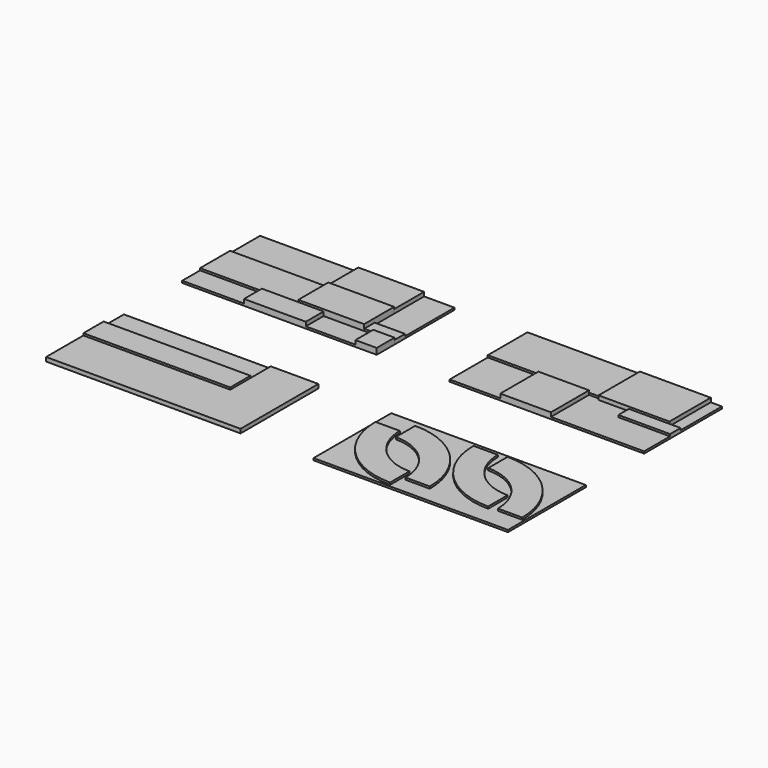
from build123d import *

# Parameters (mm, degrees)
F0_W     = 1231.9
F0_H     = 469.9
F0_W_2   = 774.7
F0_H_2   = 279.4
F0_W_3   = 1841.5
F0_H_3   = 317.5
F0_W_4   = 635
F0_H_4   = 596.9
F0_W_5   = 139.7
F0_H_5   = 647.7
F0_W_6   = 2438.4
F0_H_6   = 1219.2
F1_DEPTH = 25.4
F2_DEPTH = 50.8
F0_W_7   = 825.5
F0_W_8   = 266.7
F3_DEPTH = 76.2
F4_DEPTH = 101.6


with BuildPart() as f1:
    # F0 (on Top) → F1 (new body)
    with BuildSketch(Plane.XY):
        with Locations((615.95, 3117.85)):
            Rectangle(F0_W, F0_H)
        with Locations((387.35, 2273.3)):
            Rectangle(F0_W_2, F0_H_2)
        Polygon((1549.4, 2413), (1549.4, 2133.6), (2171.7, 2133.6), (2171.7, 2413), (2057.4, 2413), align=None)
        Polygon((2057.4, 3352.8), (2057.4, 2882.9), (2057.4, 2578.1), (2438.4, 2578.1), (2438.4, 3352.8), align=None)
        with Locations((920.75, 1060.45)):
            Rectangle(F0_W_3, F0_H_3)
        with Locations((3670.3, 2432.05)):
            Rectangle(F0_W_4, F0_H_4)
        Polygon((4622.8, 2730.5), (4622.8, 2133.6), (5791.2, 2133.6), (5791.2, 2540), (5143.5, 2540), (5143.5, 2705.1), (4762.5, 2705.1), (4762.5, 2730.5), align=None)
        with Locations((5721.35, 3028.95)):
            Rectangle(F0_W_5, F0_H_5)
        with Locations((4572, 609.6)):
            Rectangle(F0_W_6, F0_H_6)
        with BuildLine():
            ThreePointArc((4292.6, 25.4), (3646.021559, 293.221559), (3378.2, 939.8))
            Line((3378.2, 939.8), (3683, 939.8))
            ThreePointArc((3683, 939.8), (3861.547706, 508.747706), (4292.6, 330.2))
            Line((4292.6, 330.2), (4292.6, 25.4))
        make_face(mode=Mode.SUBTRACT)
        with BuildLine():
            ThreePointArc((3733.8, 1117.6), (4380.378441, 849.778441), (4648.2, 203.2))
            Line((4648.2, 203.2), (4343.4, 203.2))
            ThreePointArc((4343.4, 203.2), (4164.852294, 634.252294), (3733.8, 812.8))
            Line((3733.8, 812.8), (3733.8, 1117.6))
        make_face(mode=Mode.SUBTRACT)
        with BuildLine():
            ThreePointArc((5359.4, 228.6), (4712.821559, 496.421559), (4445, 1143))
            Line((4445, 1143), (4749.8, 1143))
            ThreePointArc((4749.8, 1143), (4928.347706, 711.947706), (5359.4, 533.4))
            Line((5359.4, 533.4), (5359.4, 228.6))
        make_face(mode=Mode.SUBTRACT)
        with BuildLine():
            ThreePointArc((4851.4, 1168.4), (5497.978441, 900.578441), (5765.8, 254))
            Line((5765.8, 254), (5461, 254))
            ThreePointArc((5461, 254), (5282.452294, 685.052294), (4851.4, 863.6))
            Line((4851.4, 863.6), (4851.4, 1168.4))
        make_face(mode=Mode.SUBTRACT)
    extrude(amount=F1_DEPTH)


with BuildPart() as f2:
    # F0 (on Top) → F2 (new body)
    with BuildSketch(Plane.XY):
        Polygon((0, 2882.9), (0, 2413), (774.7, 2413), (1231.9, 2413), (1231.9, 2882.9), align=None)
        Polygon((2057.4, 2413), (2171.7, 2413), (2438.4, 2413), (2438.4, 2578.1), (2057.4, 2578.1), align=None)
        Polygon((0, 584.2), (0, 0), (2438.4, 0), (2438.4, 1219.2), (1841.5, 1219.2), (1841.5, 901.7), (1841.5, 584.2), align=None)
        Polygon((3352.8, 3352.8), (3352.8, 2730.5), (3987.8, 2730.5), (4622.8, 2730.5), (4762.5, 2730.5), (4762.5, 3352.8), align=None)
        Polygon((5143.5, 2540), (5791.2, 2540), (5791.2, 2705.1), (5651.5, 2705.1), (5143.5, 2705.1), align=None)
        with BuildLine():
            Line((3683, 939.8), (3378.2, 939.8))
            ThreePointArc((3378.2, 939.8), (3646.021559, 293.221559), (4292.6, 25.4))
            Line((4292.6, 25.4), (4292.6, 330.2))
            ThreePointArc((4292.6, 330.2), (3861.547706, 508.747706), (3683, 939.8))
        make_face()
        with BuildLine():
            Line((4343.4, 203.2), (4648.2, 203.2))
            ThreePointArc((4648.2, 203.2), (4380.378441, 849.778441), (3733.8, 1117.6))
            Line((3733.8, 1117.6), (3733.8, 812.8))
            ThreePointArc((3733.8, 812.8), (4164.852294, 634.252294), (4343.4, 203.2))
        make_face()
        with BuildLine():
            Line((4749.8, 1143), (4445, 1143))
            ThreePointArc((4445, 1143), (4712.821559, 496.421559), (5359.4, 228.6))
            Line((5359.4, 228.6), (5359.4, 533.4))
            ThreePointArc((5359.4, 533.4), (4928.347706, 711.947706), (4749.8, 1143))
        make_face()
        with BuildLine():
            Line((5461, 254), (5765.8, 254))
            ThreePointArc((5765.8, 254), (5497.978441, 900.578441), (4851.4, 1168.4))
            Line((4851.4, 1168.4), (4851.4, 863.6))
            ThreePointArc((4851.4, 863.6), (5282.452294, 685.052294), (5461, 254))
        make_face()
    extrude(amount=F2_DEPTH)


with BuildPart() as f3:
    # F0 (on Top) → F3 (new body)
    with BuildSketch(Plane.XY):
        with Locations((1644.65, 3117.85)):
            Rectangle(F0_W_7, F0_H)
        Polygon((774.7, 2413), (774.7, 2133.6), (1549.4, 2133.6), (1549.4, 2413), (1231.9, 2413), align=None)
        with Locations((2305.05, 2273.3)):
            Rectangle(F0_W_8, F0_H_2)
        with Locations((920.75, 742.95)):
            Rectangle(F0_W_3, F0_H_3)
        with Locations((4305.3, 2432.05)):
            Rectangle(F0_W_4, F0_H_4)
        Polygon((5651.5, 3352.8), (4762.5, 3352.8), (4762.5, 2730.5), (4762.5, 2705.1), (5143.5, 2705.1), (5651.5, 2705.1), align=None)
    extrude(amount=F3_DEPTH)


with BuildPart() as f4:
    # F0 (on Top) → F4 (new body)
    with BuildSketch(Plane.XY):
        Polygon((1231.9, 2413), (1549.4, 2413), (2057.4, 2413), (2057.4, 2578.1), (2057.4, 2882.9), (1231.9, 2882.9), align=None)
    extrude(amount=F4_DEPTH)


solid = Compound([f1.part, f2.part, f3.part, f4.part])
